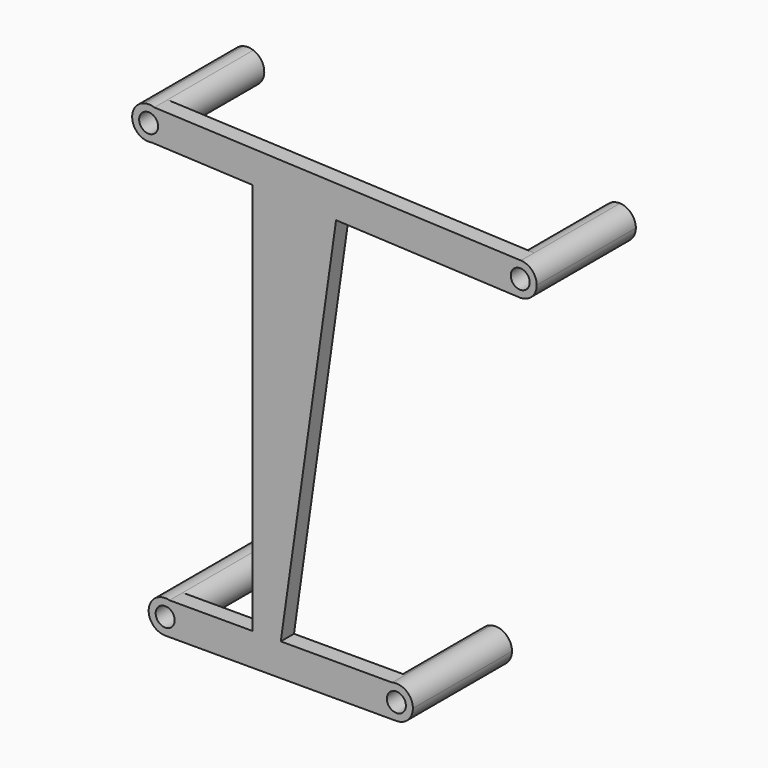
from build123d import *

# Parameters (mm, degrees)
F1_DEPTH = 15
F3_DEPTH = 13
F4_R     = 1.15
F5_DEPTH = 25


with BuildPart() as f1:
    # F0 (on Front) → F1 (new body)
    with BuildSketch(Plane.XZ):
        with BuildLine():
            ThreePointArc((-41.743332, -29.305931), (-40.329118, -28.720145), (-39.743332, -27.305931))
            ThreePointArc((-39.743332, -27.305931), (-40.156088, -26.089109), (-41.223989, -25.374537))
            ThreePointArc((-41.223989, -25.374537), (-43.726106, -27.044004), (-41.743332, -29.305931))
        make_face()
        with BuildLine():
            ThreePointArc((-41.223989, -25.374537), (-40.156088, -26.089109), (-39.743332, -27.305931))
            ThreePointArc((-39.743332, -27.305931), (-40.329118, -28.720145), (-41.743332, -29.305931))
            Line((-41.743332, -29.305931), (-13.743332, -29.305931))
            ThreePointArc((-13.743332, -29.305931), (-15.726106, -27.567859), (-14.262674, -25.374537))
            Line((-14.262674, -25.374537), (-27.743332, -25.374537))
            Line((-27.743332, -25.374537), (-31.169068, -25.374537))
            Line((-31.169068, -25.374537), (-41.223989, -25.374537))
        make_face()
        Polygon((-31.169068, 22.176644), (-31.169068, -25.374537), (-27.743332, -25.374537), (-21.045742, 21.713784), align=None)
        with BuildLine():
            ThreePointArc((-14.262674, -25.374537), (-15.726106, -27.567859), (-13.743332, -29.305931))
            ThreePointArc((-13.743332, -29.305931), (-12.329118, -28.720145), (-11.743332, -27.305931))
            ThreePointArc((-11.743332, -27.305931), (-12.526509, -25.718688), (-14.262674, -25.374537))
        make_face()
        with BuildLine():
            Line((-43.348153, 22.733499), (-31.169068, 22.176644))
            Line((-31.169068, 22.176644), (-21.045742, 21.713784))
            Line((-21.045742, 21.713784), (1.074161, 20.702413))
            ThreePointArc((1.074161, 20.702413), (-0.73886, 22.827734), (1.341411, 24.692272))
            Line((1.341411, 24.692272), (-43.06501, 26.575525))
            ThreePointArc((-43.06501, 26.575525), (-42.106774, 25.843711), (-41.743332, 24.694069))
            ThreePointArc((-41.743332, 24.694069), (-42.195695, 23.427253), (-43.348153, 22.733499))
        make_face()
        with BuildLine():
            ThreePointArc((-44.259922, 26.626201), (-45.690629, 24.237962), (-43.348153, 22.733499))
            ThreePointArc((-43.348153, 22.733499), (-42.195695, 23.427253), (-41.743332, 24.694069))
            ThreePointArc((-41.743332, 24.694069), (-42.106774, 25.843711), (-43.06501, 26.575525))
            Line((-43.06501, 26.575525), (-44.259922, 26.626201))
        make_face()
        with BuildLine():
            Line((1.256668, 20.694069), (1.074161, 20.702413))
            ThreePointArc((1.074161, 20.702413), (1.165319, 20.696156), (1.256668, 20.694069))
        make_face()
        with BuildLine():
            ThreePointArc((1.341411, 24.692272), (-0.73886, 22.827734), (1.074161, 20.702413))
            Line((1.074161, 20.702413), (1.256668, 20.694069))
            ThreePointArc((1.256668, 20.694069), (2.670882, 21.279855), (3.256668, 22.694069))
            ThreePointArc((3.256668, 22.694069), (2.700532, 24.077997), (1.341411, 24.692272))
        make_face()
        with BuildLine():
            ThreePointArc((-43.06501, 26.575525), (-43.658589, 26.692272), (-44.259922, 26.626201))
            Line((-44.259922, 26.626201), (-43.06501, 26.575525))
        make_face()
    extrude(amount=F1_DEPTH)

    # F2 (on face) → F3 (cut)
    with BuildSketch(Plane(origin=(0, 0, 0), x_dir=(-1, 0, 0), z_dir=(0, 1, 0))):
        with BuildLine():
            ThreePointArc((14.262674, -25.374537), (15.726106, -27.567859), (13.743332, -29.305931))
            Line((13.743332, -29.305931), (41.743332, -29.305931))
            ThreePointArc((41.743332, -29.305931), (39.760557, -27.567859), (41.223989, -25.374537))
            Line((41.223989, -25.374537), (31.169068, -25.374537))
            Line((31.169068, -25.374537), (31.169068, 22.176644))
            Line((31.169068, 22.176644), (43.348153, 22.733499))
            ThreePointArc((43.348153, 22.733499), (41.748741, 24.547075), (43.06501, 26.575525))
            Line((43.06501, 26.575525), (-1.341411, 24.692272))
            ThreePointArc((-1.341411, 24.692272), (0.73886, 22.827734), (-1.074161, 20.702413))
            Line((-1.074161, 20.702413), (21.045742, 21.713784))
            Line((21.045742, 21.713784), (27.743332, -25.374537))
            Line((27.743332, -25.374537), (14.262674, -25.374537))
        make_face()
    extrude(amount=-F3_DEPTH, mode=Mode.SUBTRACT)

    # F4 (on face) → F5 (cut)
    with BuildSketch(Plane.XZ.offset(15)):
        with Locations((-13.743332, -27.305931)):
            Circle(F4_R)
        with Locations((-41.743332, -27.305931)):
            Circle(F4_R)
        with Locations((1.256668, 22.694069)):
            Circle(F4_R)
        with Locations((-43.743332, 24.694069)):
            Circle(F4_R)
    extrude(amount=-F5_DEPTH, mode=Mode.SUBTRACT)


solid = f1.part
